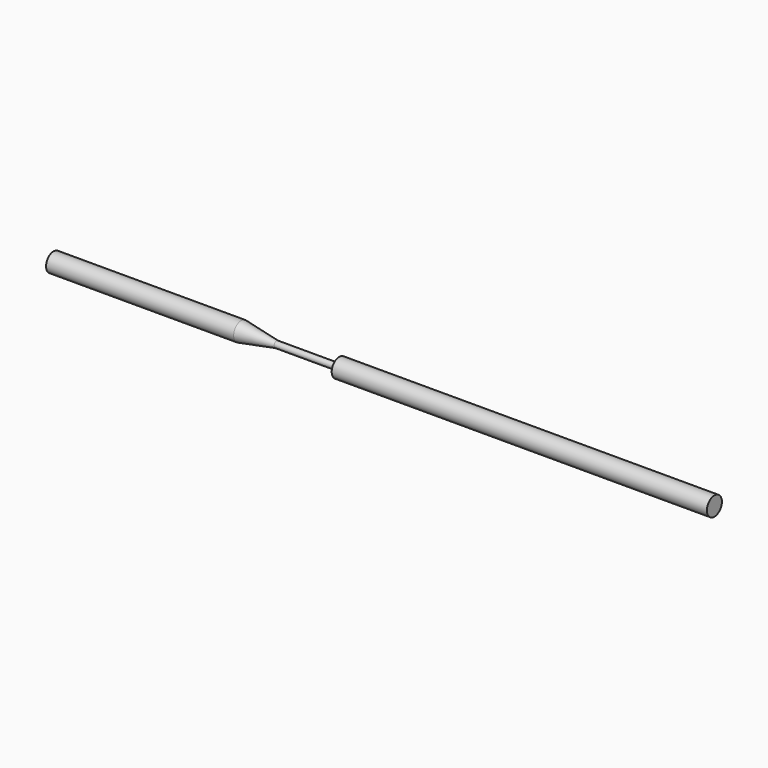
from build123d import *

# Parameters (mm, degrees)
F0_R      = 6
F1_DEPTH  = 120
F1_FACE_R = 6
F3_R      = 2
F5_R      = 2
F6_DEPTH  = 40
F8_R      = 6
F9_DEPTH  = 240


with BuildPart() as f1:
    # F0 (on Right) → F1 (new body)
    with BuildSketch(Plane.YZ):
        Circle(F0_R)
    extrude(amount=F1_DEPTH)

    # F1_face (on face) → F4 section 0
    with BuildSketch(Plane.YZ.offset(120)):
        Circle(F1_FACE_R)
    # F3 (on offset) → F4 section 1
    with BuildSketch(Plane.YZ.offset(142.685)):
        Circle(F3_R)
    loft()

    # F5 (on offset) → F6 (join)
    with BuildSketch(Plane.YZ.offset(142.685)):
        Circle(F5_R)
    extrude(amount=F6_DEPTH)

    # F8 (on offset) → F9 (join)
    with BuildSketch(Plane.YZ.offset(182.685)):
        Circle(F8_R)
    extrude(amount=F9_DEPTH)


solid = f1.part
